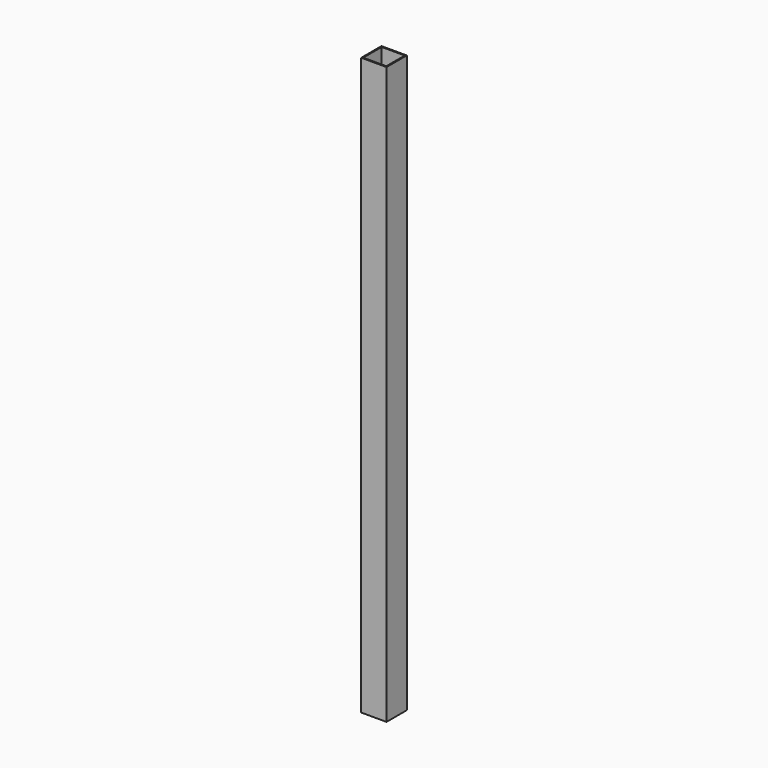
from build123d import *

# Parameters (mm, degrees)
F0_W     = 3.4
F0_H     = 3.4
F0_W_2   = 3.1
F0_H_2   = 3.1
F1_DEPTH = 1.27
F2_DEPTH = 76.2


with BuildPart() as f1:
    # F0 (on Top) → F1 (new body)
    with BuildSketch(Plane.XY):
        Rectangle(F0_W, F0_H)
        Rectangle(F0_W_2, F0_H_2, mode=Mode.SUBTRACT)
        Rectangle(F0_W_2, F0_H_2)
    extrude(amount=-F1_DEPTH)

    # F0 (on Top) → F2 (join)
    with BuildSketch(Plane.XY):
        Rectangle(F0_W, F0_H)
        Rectangle(F0_W_2, F0_H_2, mode=Mode.SUBTRACT)
    extrude(amount=F2_DEPTH)


solid = f1.part
